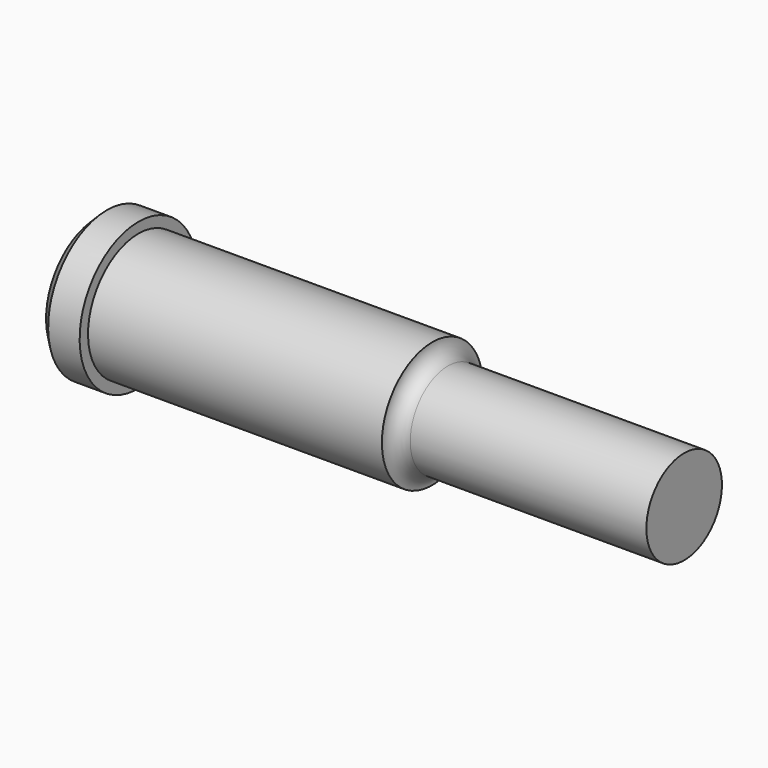
from build123d import *

# Parameters (mm, degrees)
F2_SIZE = 1.5875


with BuildPart() as f1:
    # F0 (on Front) → F1 (revolve)
    with BuildSketch(Plane.XZ):
        with BuildLine():
            Line((-29.433422, 11.1125), (-29.433422, 0))
            Line((-29.433422, 0), (59.466578, 0))
            Line((59.466578, 0), (59.466578, 7.14375))
            Line((59.466578, 7.14375), (23.747828, 7.14375))
            ThreePointArc((23.747828, 7.14375), (22.06403, 7.841202), (21.366578, 9.525))
            Line((21.366578, 9.525), (-23.083422, 9.525))
            Line((-23.083422, 9.525), (-23.083422, 11.1125))
            Line((-23.083422, 11.1125), (-29.433422, 11.1125))
        make_face()
    revolve(axis=Axis((15.016578, 0, 0), (1, 0, 0)))

    # F2
    f2_edges = [f1.edges().sort_by_distance(p)[0] for p in [
        (-29.433422, 0, -11.1125),
    ]]
    chamfer(f2_edges, length=F2_SIZE)


solid = f1.part
